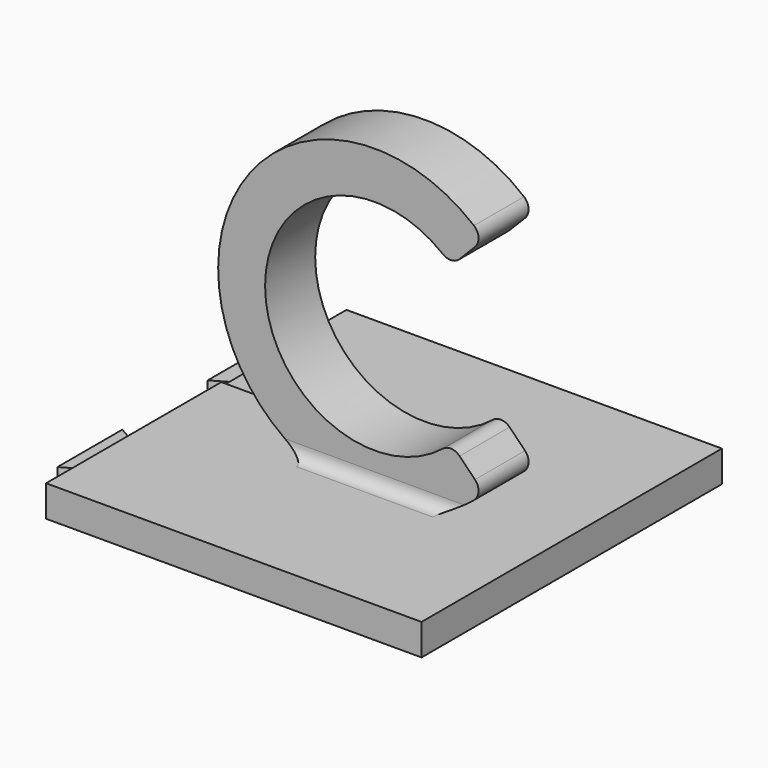
from build123d import *

# Parameters (mm, degrees)
F0_W     = 76.2
F0_H     = 76.2
F2_DEPTH = 6.35
F3_DEPTH = 6.35
F4_R     = 2.54
F6_DEPTH = 2.778125
F7_W     = 13.096875
F7_H     = 6.746875
F8_DEPTH = 0.79375


with BuildPart() as f2:
    # F0 (on Top) → F2 (new body)
    with BuildSketch(Plane.XY):
        Rectangle(F0_W, F0_H)
    extrude(amount=-F2_DEPTH)

    # F1 (on Front) → F3 (join, symmetric)
    with BuildSketch(Plane.XZ):
        with BuildLine():
            Line((18.7292598667, 44.45), (25.3953712381, 51.2535714286))
            ThreePointArc((25.3953712381, 51.2535714286), (-28.575, 28.575), (25.3953712381, 5.8964285714))
            Line((25.3953712381, 5.8964285714), (18.7292598667, 12.7))
            ThreePointArc((18.7292598667, 12.7), (-19.05, 28.575), (18.7292598667, 44.45))
        make_face()
    extrude(amount=F3_DEPTH, both=True)

    # F4
    f4_edges = [f2.edges().sort_by_distance(p)[0] for p in [
        (25.395371, 0, 51.253571),
        (18.72926, 0, 44.45),
        (18.72926, 0, 12.7),
        (25.395371, 0, 5.896429),
        (3.175, -6.35, 0),
        (3.175, 6.35, 0),
    ]]
    fillet(f4_edges, radius=F4_R)

    # F5 (on face) → F6 (join)
    with BuildSketch(Plane(origin=(0, 0, -6.35), x_dir=(1, 0, 0), z_dir=(0, 0, -1))):
        Polygon((-38.1, 14.4859375), (-38.1, 23.6140625), (-44.45, 27.2802367094), (-44.45, 10.8197632906), align=None)
        Polygon((-38.1, -23.6140625), (-38.1, -14.4859375), (-44.45, -10.8197632906), (-44.45, -27.2802367094), align=None)
    extrude(amount=-F6_DEPTH)

    # F7 (on face) → F8 (cut)
    with BuildSketch(Plane.XY):
        with Locations((-31.5515625, 9.7234375)):
            Rectangle(F7_W, F7_H)
    extrude(amount=-F8_DEPTH, mode=Mode.SUBTRACT)


solid = f2.part
